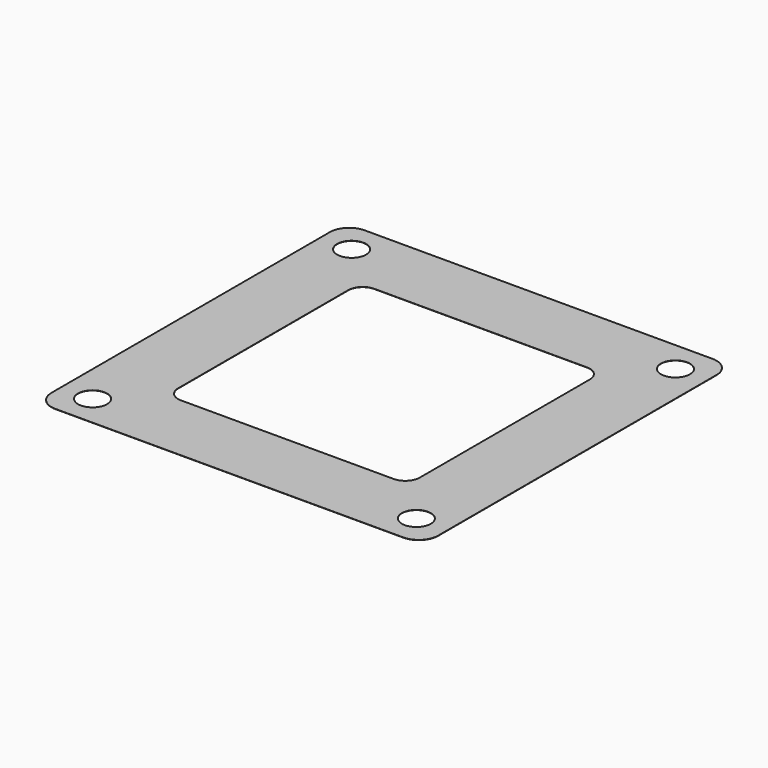
from build123d import *

# Parameters (mm, degrees)
F0_R     = 3
F1_DEPTH = 0.05


with BuildPart() as f1:
    # F0 (on Top) → F1 (new body)
    with BuildSketch(Plane.XY):
        with BuildLine():
            ThreePointArc((0, 4), (1.171573, 1.171573), (4, 0))
            Line((4, 0), (76, 0))
            ThreePointArc((76, 0), (78.828427, 1.171573), (80, 4))
            Line((80, 4), (80, 76))
            ThreePointArc((80, 76), (78.828427, 78.828427), (76, 80))
            Line((76, 80), (4, 80))
            ThreePointArc((4, 80), (1.171573, 78.828427), (0, 76))
            Line((0, 76), (0, 4))
        make_face()
        with Locations((6.5, 6.5)):
            Circle(F0_R, mode=Mode.SUBTRACT)
        with Locations((73.5, 6.5)):
            Circle(F0_R, mode=Mode.SUBTRACT)
        with BuildLine():
            ThreePointArc((15, 62), (15.87868, 64.12132), (18, 65))
            Line((18, 65), (62, 65))
            ThreePointArc((62, 65), (64.12132, 64.12132), (65, 62))
            Line((65, 62), (65, 18))
            ThreePointArc((65, 18), (64.12132, 15.87868), (62, 15))
            Line((62, 15), (18, 15))
            ThreePointArc((18, 15), (15.87868, 15.87868), (15, 18))
            Line((15, 18), (15, 62))
        make_face(mode=Mode.SUBTRACT)
        with Locations((6.5, 73.5)):
            Circle(F0_R, mode=Mode.SUBTRACT)
        with Locations((73.5, 73.5)):
            Circle(F0_R, mode=Mode.SUBTRACT)
    extrude(amount=F1_DEPTH)


solid = f1.part
